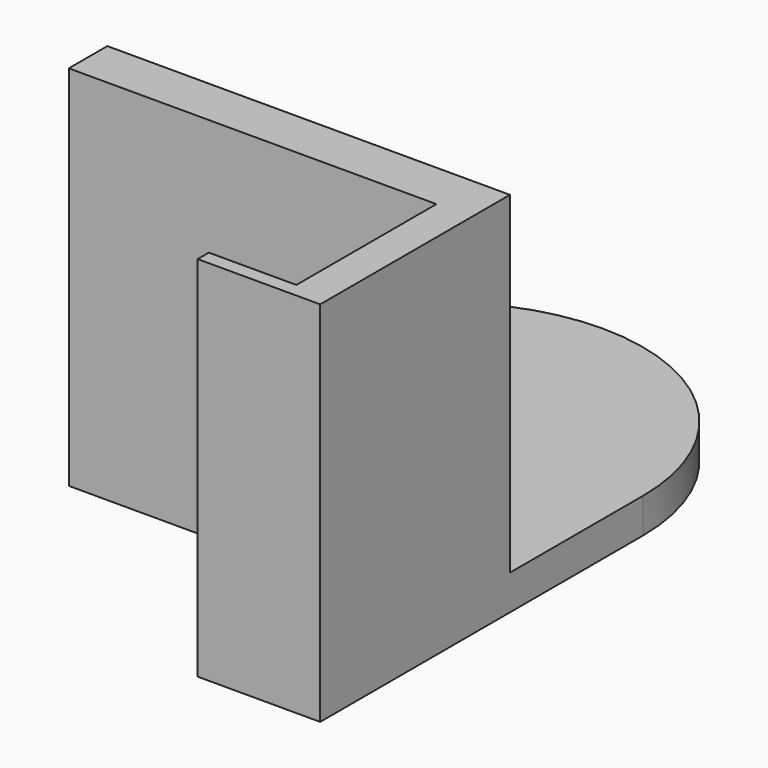
from build123d import *

# Parameters (mm, degrees)
F0_R     = 3.5
F2_DEPTH = 4
F3_DEPTH = 42


with BuildPart() as f2:
    # F0 (on Top) → F2 (new body, through all)
    with BuildSketch(Plane.XY):
        with BuildLine():
            Line((46, 5.5), (46, 24.5))
            ThreePointArc((46, 24.5), (23, 47.5), (0, 24.5))
            Line((0, 24.5), (0, 5.5))
            Line((0, 5.5), (42, 5.5))
            Line((42, 5.5), (46, 5.5))
        make_face()
        with Locations((23, 24.5)):
            Circle(F0_R, mode=Mode.SUBTRACT)
        with BuildLine():
            Line((46, 5.5), (46, 24.5))
            ThreePointArc((46, 24.5), (23, 47.5), (0, 24.5))
            Line((0, 24.5), (0, 5.5))
            Line((0, 5.5), (42, 5.5))
            Line((42, 5.5), (46, 5.5))
        make_face()
        with Locations((23, 24.5)):
            Circle(F0_R, mode=Mode.SUBTRACT)
        Polygon((46, 0), (46, 5.5), (42, 5.5), (0, 5.5), (0, 0), (42, 0), (42, -20), (32, -20), (32, -21.6), (42, -21.6), (46, -21.6), (46, -20), align=None)
    extrude(amount=F2_DEPTH)

    # F0 (on Top) → F3 (join, through all)
    with BuildSketch(Plane.XY):
        Polygon((46, 0), (46, 5.5), (42, 5.5), (0, 5.5), (0, 0), (42, 0), (42, -20), (32, -20), (32, -21.6), (42, -21.6), (46, -21.6), (46, -20), align=None)
        Polygon((46, 0), (46, 5.5), (42, 5.5), (0, 5.5), (0, 0), (42, 0), (42, -20), (32, -20), (32, -21.6), (42, -21.6), (46, -21.6), (46, -20), align=None)
    extrude(amount=F3_DEPTH)


solid = f2.part
